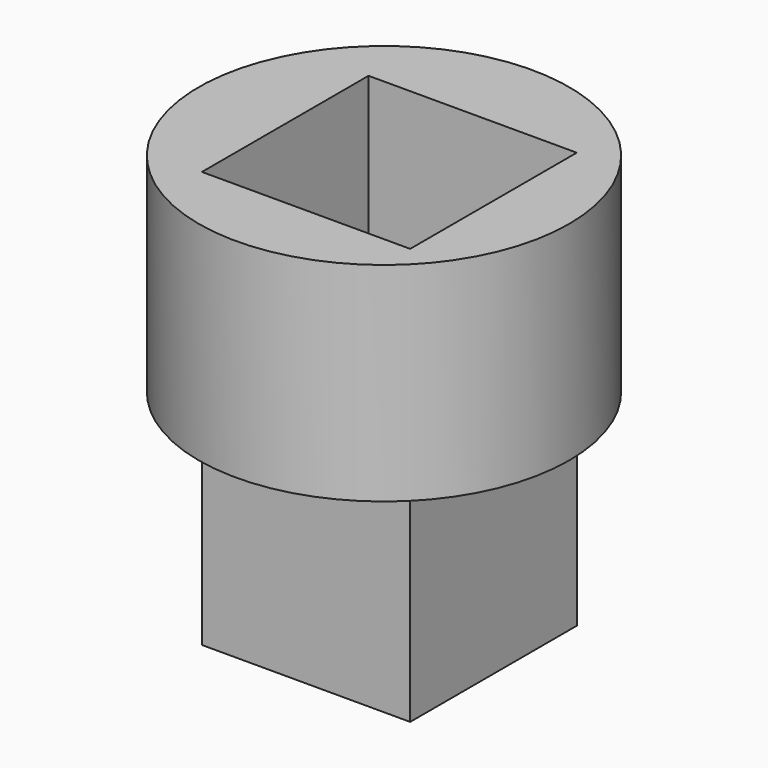
from build123d import *

# Parameters (mm, degrees)
F0_W     = 76.2
F0_H     = 76.2
F1_DEPTH = 76.2
F2_R     = 67.780921
F2_W     = 76.2
F2_H     = 76.2
F3_DEPTH = 76.2


with BuildPart() as f1:
    # F0 (on Front) → F1 (new body)
    with BuildSketch(Plane.XZ):
        with Locations((10.004267, -7.793634)):
            Rectangle(F0_W, F0_H)
    extrude(amount=F1_DEPTH)


with BuildPart() as f3:
    # F2 (on face) → F3 (new body)
    with BuildSketch(Plane.XY.offset(30.306366)):
        with Locations((6.169756, -35.760228)):
            Circle(F2_R)
        with Locations((10.004267, -38.1)):
            Rectangle(F2_W, F2_H, mode=Mode.SUBTRACT)
    extrude(amount=F3_DEPTH)


solid = Compound([f1.part, f3.part])
